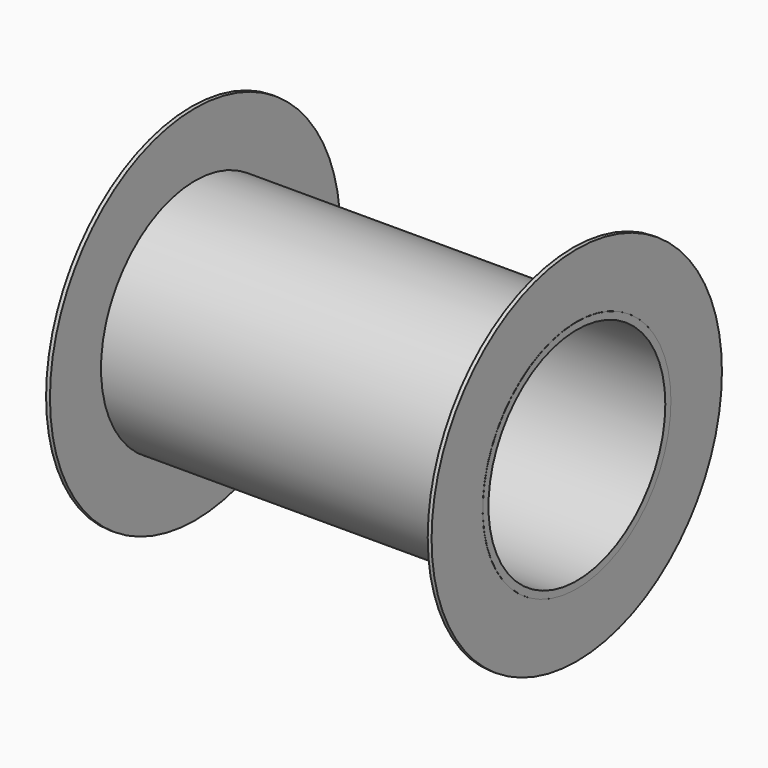
from build123d import *

# Parameters (mm, degrees)
F0_R     = 38.708294
F0_R_2   = 36.389841
F1_DEPTH = 63.5
F3_W     = 1.273778
F3_H     = 21.031866


with BuildPart() as f1:
    # F0 (on Right) → F1 (new body, symmetric)
    with BuildSketch(Plane.YZ):
        Circle(F0_R)
        Circle(F0_R_2, mode=Mode.SUBTRACT)
    extrude(amount=F1_DEPTH, both=True)


with BuildPart() as f4:
    # F3 (on Front) → F4 (revolve)
    with BuildSketch(Plane.XZ):
        with Locations((62.821457, 49.224227)):
            Rectangle(F3_W, F3_H)
        with Locations((-62.821457, 49.224227)):
            Rectangle(F3_W, F3_H)
    revolve(axis=Axis((1.114558, 0, 0), (1, 0, 0)))


solid = Compound([f1.part, f4.part])
